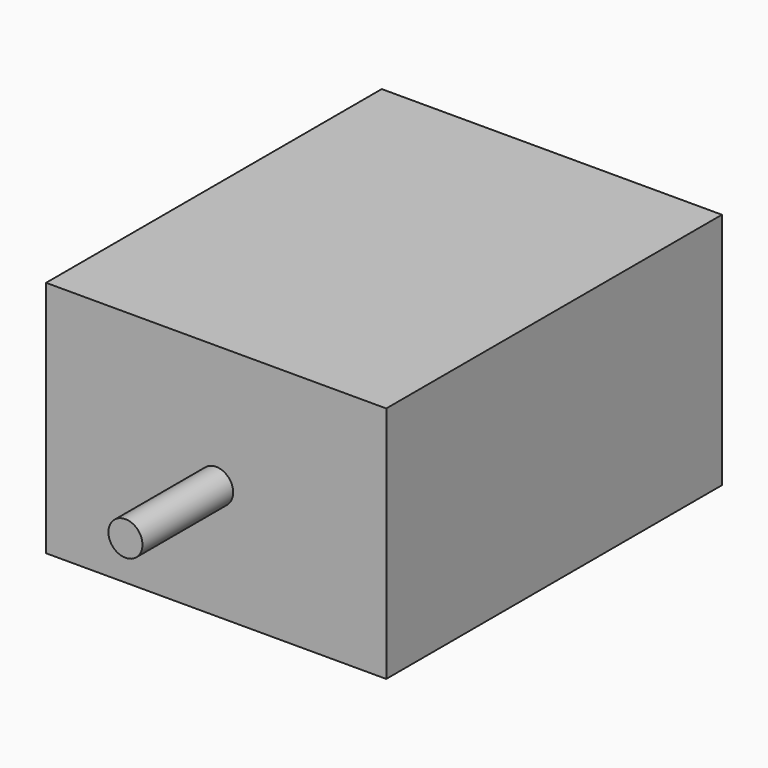
from build123d import *

# Parameters (mm, degrees)
F0_W     = 30
F0_H     = 21
F1_DEPTH = 37
F2_W     = 5
F2_H     = 5
F3_DEPTH = 37
F4_R     = 1.5
F5_DEPTH = 10


with BuildPart() as f1:
    # F0 (on Front) → F1 (new body)
    with BuildSketch(Plane.XZ):
        with Locations((4.018988, -0.890413)):
            Rectangle(F0_W, F0_H)
    extrude(amount=F1_DEPTH)

    # F2 (on face) → F3 (join)
    with BuildSketch(Plane(origin=(0, 0, 0), x_dir=(-1, 0, 0), z_dir=(0, 1, 0))):
        with Locations((-16.518988, -8.890413)):
            Rectangle(F2_W, F2_H)
    extrude(amount=-F3_DEPTH)

    # F4 (on face) → F5 (join)
    with BuildSketch(Plane.XZ.offset(37)):
        with Locations((4.018988, -1.295996)):
            Circle(F4_R)
    extrude(amount=F5_DEPTH)


solid = f1.part
